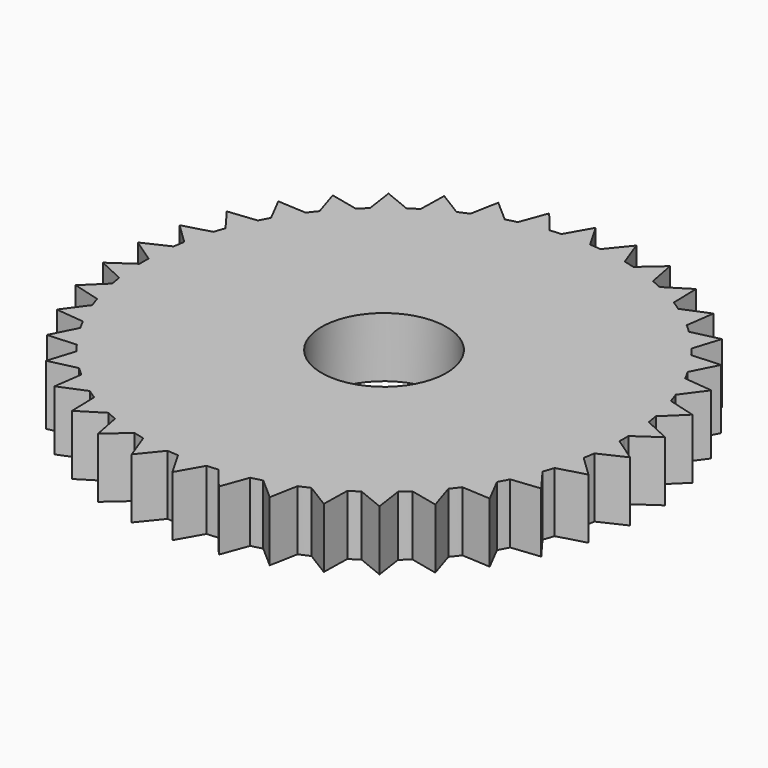
from build123d import *

# Parameters (mm, degrees)
F0_R     = 6.604
F1_DEPTH = 6.35


with BuildPart() as f1:
    # F0 (on Top) → F1 (new body)
    with BuildSketch(Plane.XY):
        with BuildLine():
            ThreePointArc((25.392899, -0.600559), (25.398225, -0.3003), (25.4, 0))
            ThreePointArc((25.4, 0), (25.398317, 0.29242), (25.393267, 0.5848))
            ThreePointArc((25.393267, 0.5848), (25.313896, 2.089661), (25.145422, 3.587166))
            ThreePointArc((25.145422, 3.587166), (25.054873, 4.172929), (24.950681, 4.756419))
            ThreePointArc((24.950681, 4.756419), (24.6247, 6.227691), (24.212043, 7.677042))
            ThreePointArc((24.212043, 7.677042), (24.026316, 8.239912), (23.827505, 8.798295))
            ThreePointArc((23.827505, 8.798295), (23.263807, 10.195846), (22.618223, 11.557509))
            ThreePointArc((22.618223, 11.557509), (22.342383, 12.082132), (22.054378, 12.600176))
            ThreePointArc((22.054378, 12.600176), (21.268338, 13.885885), (20.407436, 15.122716))
            ThreePointArc((20.407436, 15.122716), (20.049009, 15.594783), (19.679664, 16.058357))
            ThreePointArc((19.679664, 16.058357), (18.692724, 17.197153), (17.639988, 18.275416))
            ThreePointArc((17.639988, 18.275416), (17.20875, 18.682049), (16.76814, 19.078508))
            ThreePointArc((16.76814, 19.078508), (15.607222, 20.039327), (14.391367, 20.92961))
            ThreePointArc((14.391367, 20.92961), (13.899081, 21.259717), (13.399225, 21.578247))
            ThreePointArc((13.399225, 21.578247), (12.095995, 22.334881), (10.750187, 23.012898))
            ThreePointArc((10.750187, 23.012898), (10.210281, 23.257475), (9.664815, 23.489388))
            ThreePointArc((9.664815, 23.489388), (8.25482, 24.021198), (6.81577, 24.468455))
            ThreePointArc((6.81577, 24.468455), (6.242971, 24.620831), (5.666773, 24.7598))
            ThreePointArc((5.666773, 24.7598), (4.188476, 25.052279), (2.695436, 25.256576))
            ThreePointArc((2.695436, 25.256576), (2.10537, 25.312594), (1.514156, 25.354829))
            ThreePointArc((1.514156, 25.354829), (0.757415, 25.388705), (0, 25.4))
            ThreePointArc((0, 25.4), (-0.749537, 25.388938), (-1.498422, 25.355763))
            ThreePointArc((-1.498422, 25.355763), (-2.089661, 25.313896), (-2.679762, 25.258244))
            ThreePointArc((-2.679762, 25.258244), (-4.172929, 25.054873), (-5.651406, 24.763312))
            ThreePointArc((-5.651406, 24.763312), (-6.227691, 24.6247), (-6.800584, 24.47268))
            ThreePointArc((-6.800584, 24.47268), (-8.239912, 24.026316), (-9.650236, 23.495381))
            ThreePointArc((-9.650236, 23.495381), (-10.195846, 23.263807), (-10.735904, 23.019565))
            ThreePointArc((-10.735904, 23.019565), (-12.082132, 22.342383), (-13.385832, 21.586558))
            ThreePointArc((-13.385832, 21.586558), (-13.885885, 21.268338), (-14.378376, 20.938536))
            ThreePointArc((-14.378376, 20.938536), (-15.594783, 20.049009), (-16.756297, 19.08891))
            ThreePointArc((-16.756297, 19.08891), (-17.197153, 18.692724), (-17.628643, 18.286359))
            ThreePointArc((-17.628643, 18.286359), (-18.682049, 17.20875), (-19.669695, 16.070567))
            ThreePointArc((-19.669695, 16.070567), (-20.039327, 15.607222), (-20.398047, 15.135378))
            ThreePointArc((-20.398047, 15.135378), (-21.259717, 13.899081), (-22.046554, 12.61386))
            ThreePointArc((-22.046554, 12.61386), (-22.334881, 12.095995), (-22.611046, 11.571543))
            ThreePointArc((-22.611046, 11.571543), (-23.257475, 10.210281), (-23.822041, 8.81308))
            ThreePointArc((-23.822041, 8.81308), (-24.021198, 8.25482), (-24.207274, 7.692066))
            ThreePointArc((-24.207274, 7.692066), (-24.620831, 6.242971), (-24.947724, 4.771902))
            ThreePointArc((-24.947724, 4.771902), (-25.052279, 4.188476), (-25.143191, 3.60277))
            ThreePointArc((-25.143191, 3.60277), (-25.312594, 2.10537), (-25.392899, 0.600559))
            ThreePointArc((-25.392899, 0.600559), (-25.399999, 0.007881), (-25.393267, -0.5848))
            ThreePointArc((-25.393267, -0.5848), (-25.313896, -2.089661), (-25.145422, -3.587166))
            ThreePointArc((-25.145422, -3.587166), (-25.054873, -4.172929), (-24.950681, -4.756419))
            ThreePointArc((-24.950681, -4.756419), (-24.6247, -6.227691), (-24.212043, -7.677042))
            ThreePointArc((-24.212043, -7.677042), (-24.026316, -8.239912), (-23.827505, -8.798295))
            ThreePointArc((-23.827505, -8.798295), (-23.263807, -10.195846), (-22.618223, -11.557509))
            ThreePointArc((-22.618223, -11.557509), (-22.342383, -12.082132), (-22.054378, -12.600176))
            ThreePointArc((-22.054378, -12.600176), (-21.268338, -13.885885), (-20.407436, -15.122716))
            ThreePointArc((-20.407436, -15.122716), (-20.049009, -15.594783), (-19.679664, -16.058357))
            ThreePointArc((-19.679664, -16.058357), (-18.692724, -17.197153), (-17.639988, -18.275416))
            ThreePointArc((-17.639988, -18.275416), (-17.20875, -18.682049), (-16.76814, -19.078508))
            ThreePointArc((-16.76814, -19.078508), (-15.607222, -20.039327), (-14.391367, -20.92961))
            ThreePointArc((-14.391367, -20.92961), (-13.899081, -21.259717), (-13.399225, -21.578247))
            ThreePointArc((-13.399225, -21.578247), (-12.095995, -22.334881), (-10.750187, -23.012898))
            ThreePointArc((-10.750187, -23.012898), (-10.210281, -23.257475), (-9.664815, -23.489388))
            ThreePointArc((-9.664815, -23.489388), (-8.25482, -24.021198), (-6.81577, -24.468455))
            ThreePointArc((-6.81577, -24.468455), (-6.242971, -24.620831), (-5.666773, -24.7598))
            ThreePointArc((-5.666773, -24.7598), (-4.188476, -25.052279), (-2.695436, -25.256576))
            ThreePointArc((-2.695436, -25.256576), (-2.10537, -25.312594), (-1.514156, -25.354829))
            ThreePointArc((-1.514156, -25.354829), (-0.007881, -25.399999), (1.498422, -25.355763))
            ThreePointArc((1.498422, -25.355763), (2.089661, -25.313896), (2.679762, -25.258244))
            ThreePointArc((2.679762, -25.258244), (4.172929, -25.054873), (5.651406, -24.763312))
            ThreePointArc((5.651406, -24.763312), (6.227691, -24.6247), (6.800584, -24.47268))
            ThreePointArc((6.800584, -24.47268), (8.239912, -24.026316), (9.650236, -23.495381))
            ThreePointArc((9.650236, -23.495381), (10.195846, -23.263807), (10.735904, -23.019565))
            ThreePointArc((10.735904, -23.019565), (12.082132, -22.342383), (13.385832, -21.586558))
            ThreePointArc((13.385832, -21.586558), (13.885885, -21.268338), (14.378376, -20.938536))
            ThreePointArc((14.378376, -20.938536), (15.594783, -20.049009), (16.756297, -19.08891))
            ThreePointArc((16.756297, -19.08891), (17.197153, -18.692724), (17.628643, -18.286359))
            ThreePointArc((17.628643, -18.286359), (18.682049, -17.20875), (19.669695, -16.070567))
            ThreePointArc((19.669695, -16.070567), (20.039327, -15.607222), (20.398047, -15.135378))
            ThreePointArc((20.398047, -15.135378), (21.259717, -13.899081), (22.046554, -12.61386))
            ThreePointArc((22.046554, -12.61386), (22.334881, -12.095995), (22.611046, -11.571543))
            ThreePointArc((22.611046, -11.571543), (23.257475, -10.210281), (23.822041, -8.81308))
            ThreePointArc((23.822041, -8.81308), (24.021198, -8.25482), (24.207274, -7.692066))
            ThreePointArc((24.207274, -7.692066), (24.620831, -6.242971), (24.947724, -4.771902))
            ThreePointArc((24.947724, -4.771902), (25.052279, -4.188476), (25.143191, -3.60277))
            ThreePointArc((25.143191, -3.60277), (25.312594, -2.10537), (25.392899, -0.600559))
        make_face()
        Circle(F0_R, mode=Mode.SUBTRACT)
        with BuildLine():
            ThreePointArc((25.145422, 3.587166), (25.313896, 2.089661), (25.393267, 0.5848))
            Line((25.393267, 0.5848), (27.893054, 2.311284))
            Line((27.893054, 2.311284), (25.145422, 3.587166))
        make_face()
        with BuildLine():
            Line((27.893054, -2.311284), (25.392899, -0.600559))
            ThreePointArc((25.392899, -0.600559), (25.312594, -2.10537), (25.143191, -3.60277))
            Line((25.143191, -3.60277), (27.893054, -2.311284))
        make_face()
        with BuildLine():
            ThreePointArc((24.212043, 7.677042), (24.6247, 6.227691), (24.950681, 4.756419))
            Line((24.950681, 4.756419), (27.132205, 6.870807))
            Line((27.132205, 6.870807), (24.212043, 7.677042))
        make_face()
        with BuildLine():
            Line((27.132205, -6.870807), (24.947724, -4.771902))
            ThreePointArc((24.947724, -4.771902), (24.620831, -6.242971), (24.207274, -7.692066))
            Line((24.207274, -7.692066), (27.132205, -6.870807))
        make_face()
        with BuildLine():
            ThreePointArc((22.618223, 11.557509), (23.263807, 10.195846), (23.827505, 8.798295))
            Line((23.827505, 8.798295), (25.631259, 11.242913))
            Line((25.631259, 11.242913), (22.618223, 11.557509))
        make_face()
        with BuildLine():
            Line((25.631259, -11.242913), (23.822041, -8.81308))
            ThreePointArc((23.822041, -8.81308), (23.257475, -10.210281), (22.611046, -11.571543))
            Line((22.611046, -11.571543), (25.631259, -11.242913))
        make_face()
        with BuildLine():
            ThreePointArc((20.407436, 15.122716), (21.268338, 13.885885), (22.054378, 12.600176))
            Line((22.054378, 12.600176), (23.431159, 15.308341))
            Line((23.431159, 15.308341), (20.407436, 15.122716))
        make_face()
        with BuildLine():
            Line((23.431159, -15.308341), (22.046554, -12.61386))
            ThreePointArc((22.046554, -12.61386), (21.259717, -13.899081), (20.398047, -15.135378))
            Line((20.398047, -15.135378), (23.431159, -15.308341))
        make_face()
        with BuildLine():
            ThreePointArc((17.639988, 18.275416), (18.692724, 17.197153), (19.679664, 16.058357))
            Line((19.679664, 16.058357), (20.591919, 18.956197))
            Line((20.591919, 18.956197), (17.639988, 18.275416))
        make_face()
        with BuildLine():
            Line((20.591919, -18.956197), (19.669695, -16.070567))
            ThreePointArc((19.669695, -16.070567), (18.682049, -17.20875), (17.628643, -18.286359))
            Line((17.628643, -18.286359), (20.591919, -18.956197))
        make_face()
        with BuildLine():
            ThreePointArc((14.391367, 20.92961), (15.607222, 20.039327), (16.76814, 19.078508))
            Line((16.76814, 19.078508), (17.190985, 22.086977))
            Line((17.190985, 22.086977), (14.391367, 20.92961))
        make_face()
        with BuildLine():
            Line((17.190985, -22.086977), (16.756297, -19.08891))
            ThreePointArc((16.756297, -19.08891), (15.594783, -20.049009), (14.378376, -20.938536))
            Line((14.378376, -20.938536), (17.190985, -22.086977))
        make_face()
        with BuildLine():
            ThreePointArc((10.750187, 23.012898), (12.095995, 22.334881), (13.399225, 21.578247))
            Line((13.399225, 21.578247), (13.321125, 24.615283))
            Line((13.321125, 24.615283), (10.750187, 23.012898))
        make_face()
        with BuildLine():
            Line((13.321125, -24.615283), (13.385832, -21.586558))
            ThreePointArc((13.385832, -21.586558), (12.082132, -22.342383), (10.735904, -23.019565))
            Line((10.735904, -23.019565), (13.321125, -24.615283))
        make_face()
        with BuildLine():
            ThreePointArc((6.81577, 24.468455), (8.25482, 24.021198), (9.664815, 23.489388))
            Line((9.664815, 23.489388), (9.0879, 26.472148))
            Line((9.0879, 26.472148), (6.81577, 24.468455))
        make_face()
        with BuildLine():
            Line((9.0879, -26.472148), (9.650236, -23.495381))
            ThreePointArc((9.650236, -23.495381), (8.239912, -24.026316), (6.800584, -24.47268))
            Line((6.800584, -24.47268), (9.0879, -26.472148))
        make_face()
        with BuildLine():
            ThreePointArc((2.695436, 25.256576), (4.188476, 25.052279), (5.666773, 24.7598))
            Line((5.666773, 24.7598), (4.60678, 27.606921))
            Line((4.60678, 27.606921), (2.695436, 25.256576))
        make_face()
        with BuildLine():
            Line((4.60678, -27.606921), (5.651406, -24.763312))
            ThreePointArc((5.651406, -24.763312), (4.172929, -25.054873), (2.679762, -25.258244))
            Line((2.679762, -25.258244), (4.60678, -27.606921))
        make_face()
        with BuildLine():
            ThreePointArc((0, 25.4), (0.757415, 25.388705), (1.514156, 25.354829))
            Line((1.514156, 25.354829), (0, 27.98865))
            Line((0, 27.98865), (0, 25.4))
        make_face()
        with BuildLine():
            Line((0, -27.98865), (1.498422, -25.355763))
            ThreePointArc((1.498422, -25.355763), (-0.007881, -25.399999), (-1.514156, -25.354829))
            Line((-1.514156, -25.354829), (0, -27.98865))
        make_face()
        with BuildLine():
            ThreePointArc((-1.498422, 25.355763), (-0.749537, 25.388938), (0, 25.4))
            Line((0, 25.4), (0, 27.98865))
            Line((0, 27.98865), (-1.498422, 25.355763))
        make_face()
        with BuildLine():
            Line((-4.60678, -27.606921), (-2.695436, -25.256576))
            ThreePointArc((-2.695436, -25.256576), (-4.188476, -25.052279), (-5.666773, -24.7598))
            Line((-5.666773, -24.7598), (-4.60678, -27.606921))
        make_face()
        with BuildLine():
            ThreePointArc((-5.651406, 24.763312), (-4.172929, 25.054873), (-2.679762, 25.258244))
            Line((-2.679762, 25.258244), (-4.60678, 27.606921))
            Line((-4.60678, 27.606921), (-5.651406, 24.763312))
        make_face()
        with BuildLine():
            Line((-9.0879, -26.472148), (-6.81577, -24.468455))
            ThreePointArc((-6.81577, -24.468455), (-8.25482, -24.021198), (-9.664815, -23.489388))
            Line((-9.664815, -23.489388), (-9.0879, -26.472148))
        make_face()
        with BuildLine():
            ThreePointArc((-9.650236, 23.495381), (-8.239912, 24.026316), (-6.800584, 24.47268))
            Line((-6.800584, 24.47268), (-9.0879, 26.472148))
            Line((-9.0879, 26.472148), (-9.650236, 23.495381))
        make_face()
        with BuildLine():
            Line((-13.321125, -24.615283), (-10.750187, -23.012898))
            ThreePointArc((-10.750187, -23.012898), (-12.095995, -22.334881), (-13.399225, -21.578247))
            Line((-13.399225, -21.578247), (-13.321125, -24.615283))
        make_face()
        with BuildLine():
            ThreePointArc((-13.385832, 21.586558), (-12.082132, 22.342383), (-10.735904, 23.019565))
            Line((-10.735904, 23.019565), (-13.321125, 24.615283))
            Line((-13.321125, 24.615283), (-13.385832, 21.586558))
        make_face()
        with BuildLine():
            Line((-17.190985, -22.086977), (-14.391367, -20.92961))
            ThreePointArc((-14.391367, -20.92961), (-15.607222, -20.039327), (-16.76814, -19.078508))
            Line((-16.76814, -19.078508), (-17.190985, -22.086977))
        make_face()
        with BuildLine():
            ThreePointArc((-16.756297, 19.08891), (-15.594783, 20.049009), (-14.378376, 20.938536))
            Line((-14.378376, 20.938536), (-17.190985, 22.086977))
            Line((-17.190985, 22.086977), (-16.756297, 19.08891))
        make_face()
        with BuildLine():
            Line((-20.591919, -18.956197), (-17.639988, -18.275416))
            ThreePointArc((-17.639988, -18.275416), (-18.692724, -17.197153), (-19.679664, -16.058357))
            Line((-19.679664, -16.058357), (-20.591919, -18.956197))
        make_face()
        with BuildLine():
            ThreePointArc((-19.669695, 16.070567), (-18.682049, 17.20875), (-17.628643, 18.286359))
            Line((-17.628643, 18.286359), (-20.591919, 18.956197))
            Line((-20.591919, 18.956197), (-19.669695, 16.070567))
        make_face()
        with BuildLine():
            Line((-23.431159, -15.308341), (-20.407436, -15.122716))
            ThreePointArc((-20.407436, -15.122716), (-21.268338, -13.885885), (-22.054378, -12.600176))
            Line((-22.054378, -12.600176), (-23.431159, -15.308341))
        make_face()
        with BuildLine():
            ThreePointArc((-22.046554, 12.61386), (-21.259717, 13.899081), (-20.398047, 15.135378))
            Line((-20.398047, 15.135378), (-23.431159, 15.308341))
            Line((-23.431159, 15.308341), (-22.046554, 12.61386))
        make_face()
        with BuildLine():
            Line((-25.631259, -11.242913), (-22.618223, -11.557509))
            ThreePointArc((-22.618223, -11.557509), (-23.263807, -10.195846), (-23.827505, -8.798295))
            Line((-23.827505, -8.798295), (-25.631259, -11.242913))
        make_face()
        with BuildLine():
            ThreePointArc((-23.822041, 8.81308), (-23.257475, 10.210281), (-22.611046, 11.571543))
            Line((-22.611046, 11.571543), (-25.631259, 11.242913))
            Line((-25.631259, 11.242913), (-23.822041, 8.81308))
        make_face()
        with BuildLine():
            Line((-27.132205, -6.870807), (-24.212043, -7.677042))
            ThreePointArc((-24.212043, -7.677042), (-24.6247, -6.227691), (-24.950681, -4.756419))
            Line((-24.950681, -4.756419), (-27.132205, -6.870807))
        make_face()
        with BuildLine():
            ThreePointArc((-24.947724, 4.771902), (-24.620831, 6.242971), (-24.207274, 7.692066))
            Line((-24.207274, 7.692066), (-27.132205, 6.870807))
            Line((-27.132205, 6.870807), (-24.947724, 4.771902))
        make_face()
        with BuildLine():
            Line((-27.893054, -2.311284), (-25.145422, -3.587166))
            ThreePointArc((-25.145422, -3.587166), (-25.313896, -2.089661), (-25.393267, -0.5848))
            Line((-25.393267, -0.5848), (-27.893054, -2.311284))
        make_face()
        with BuildLine():
            ThreePointArc((-25.392899, 0.600559), (-25.312594, 2.10537), (-25.143191, 3.60277))
            Line((-25.143191, 3.60277), (-27.893054, 2.311284))
            Line((-27.893054, 2.311284), (-25.392899, 0.600559))
        make_face()
    extrude(amount=F1_DEPTH)


solid = f1.part
